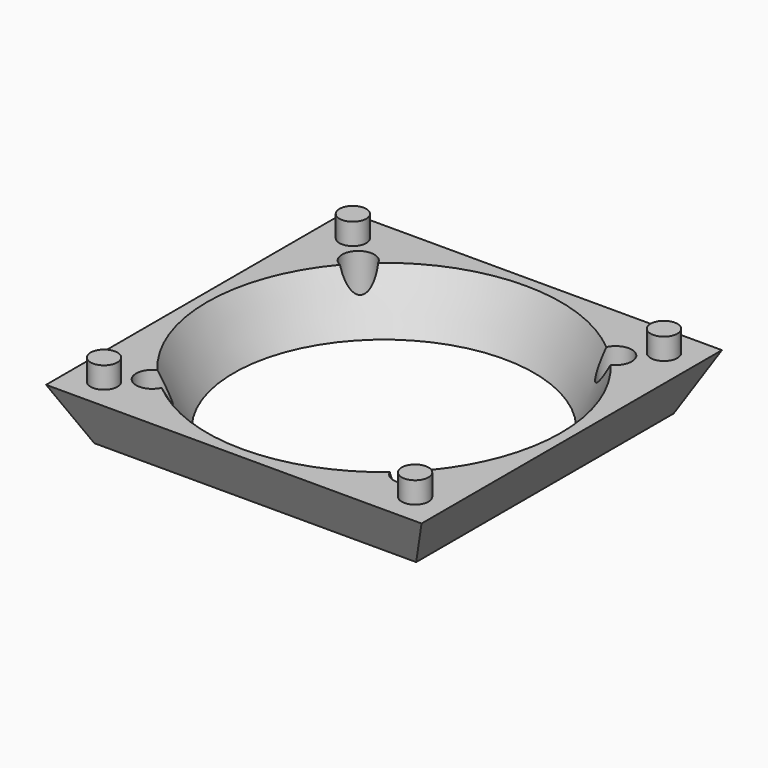
from build123d import *

# Parameters (mm, degrees)
F0_W      = 30
F0_H      = 30
F2_W      = 35
F2_H      = 35
F4_R      = 16.5
F5_R      = 14
F7_R      = 1.25
F8_DEPTH  = 2
F9_R      = 1.5
F10_DEPTH = 5


with BuildPart() as f3:
    # F0 (on Top) → F3 section 0
    with BuildSketch(Plane.XY):
        with Locations((15, -15)):
            Rectangle(F0_W, F0_H)
    # F2 (on offset) → F3 section 1
    with BuildSketch(Plane.XY.offset(5)):
        with Locations((15, -15)):
            Rectangle(F2_W, F2_H)
    loft()

    # F4 (on face) → F6 section 0
    with BuildSketch(Plane.XY.offset(5)):
        with Locations((15, -15)):
            Circle(F4_R)
    # F5 (on face) → F6 section 1
    with BuildSketch(Plane(origin=(0, 0, 0), x_dir=(1, 0, 0), z_dir=(0, 0, -1))):
        with Locations((15, 15)):
            Circle(F5_R)
    loft(mode=Mode.SUBTRACT)

    # F7 (on face) → F8 (join)
    with BuildSketch(Plane.XY.offset(5)):
        with Locations((0.5, -0.5)):
            Circle(F7_R)
        with Locations((29.5, -0.5)):
            Circle(F7_R)
        with Locations((29.5, -29.5)):
            Circle(F7_R)
        with Locations((0.5, -29.5)):
            Circle(F7_R)
    extrude(amount=F8_DEPTH)

    # F9 (on face) → F10 (cut)
    with BuildSketch(Plane.XY):
        with Locations((27, -27)):
            Circle(F9_R)
        with Locations((3, -27)):
            Circle(F9_R)
        with Locations((3, -3)):
            Circle(F9_R)
        with Locations((27, -3)):
            Circle(F9_R)
    extrude(amount=F10_DEPTH, mode=Mode.SUBTRACT)


solid = f3.part
